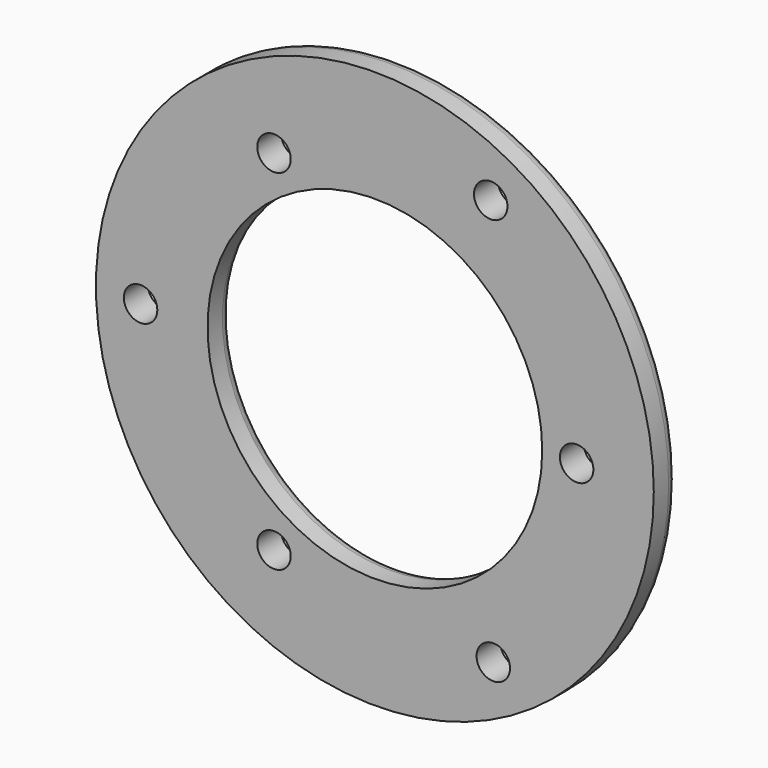
from build123d import *

# Parameters (mm, degrees)
F0_R     = 75
F0_R_2   = 4.5
F0_R_3   = 45
F1_DEPTH = 8
F2_R     = 3
F3_R     = 3


with BuildPart() as f1:
    # F0 (on Front) → F1 (new body)
    with BuildSketch(Plane.XZ):
        Circle(F0_R)
        with Locations((-27.125, -46.981878)):
            Circle(F0_R_2, mode=Mode.SUBTRACT)
        with Locations((-62.998735, -0.399298)):
            Circle(F0_R_2, mode=Mode.SUBTRACT)
        with Locations((31.84517, -54.358856)):
            Circle(F0_R_2, mode=Mode.SUBTRACT)
        with Locations((-27.125, 46.981878)):
            Circle(F0_R_2, mode=Mode.SUBTRACT)
        Circle(F0_R_3, mode=Mode.SUBTRACT)
        with Locations((54.25, 0)):
            Circle(F0_R_2, mode=Mode.SUBTRACT)
        with Locations((31.153565, 54.758154)):
            Circle(F0_R_2, mode=Mode.SUBTRACT)
    extrude(amount=F1_DEPTH)

    # F2
    f2_edges = [f1.edges().sort_by_distance(p)[0] for p in [
        (-45, 0, 0),
    ]]
    fillet(f2_edges, radius=F2_R)

    # F3
    f3_edges = [f1.edges().sort_by_distance(p)[0] for p in [
        (-75, 0, 0),
    ]]
    fillet(f3_edges, radius=F3_R)


solid = f1.part
